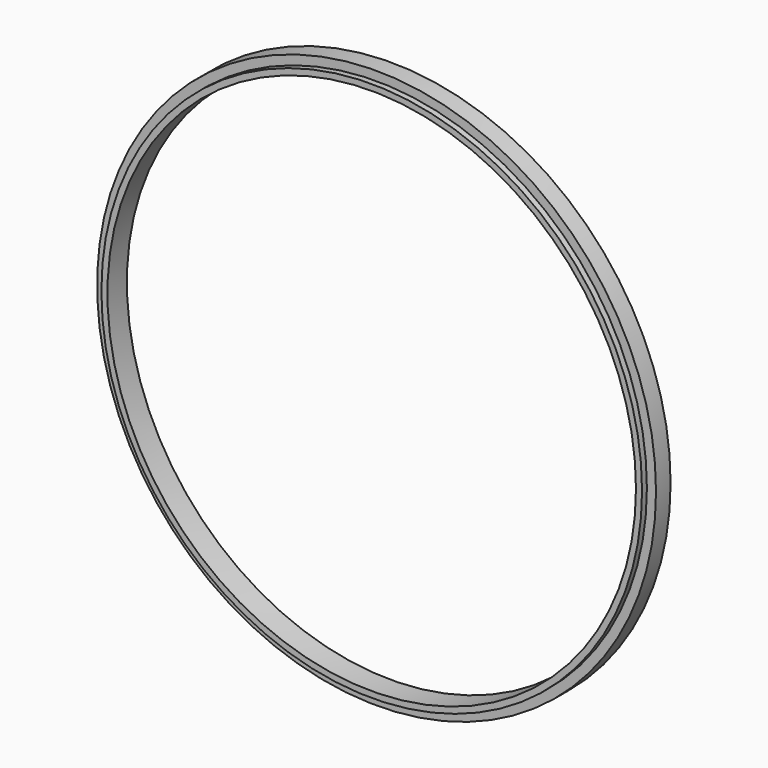
from build123d import *

# Parameters (mm, degrees)
F0_R     = 222.5
F0_R_2   = 217.5
F1_DEPTH = 20
F0_R_3   = 230
F2_DEPTH = 15


with BuildPart() as f1:
    # F0 (on Front) → F1 (new body)
    with BuildSketch(Plane.XZ):
        Circle(F0_R)
        Circle(F0_R_2, mode=Mode.SUBTRACT)
    extrude(amount=F1_DEPTH)

    # F0 (on Front) → F2 (join)
    with BuildSketch(Plane.XZ):
        Circle(F0_R_3)
        Circle(F0_R, mode=Mode.SUBTRACT)
    extrude(amount=F2_DEPTH)


solid = f1.part
